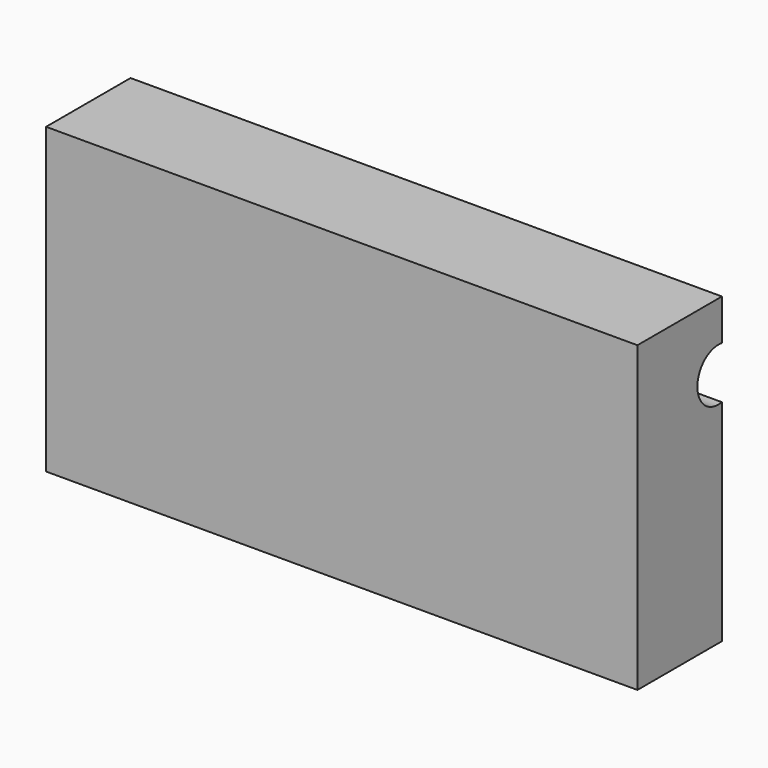
from build123d import *

# Parameters (mm, degrees)
F0_W     = 142.24
F0_H     = 38.1
F1_DEPTH = 73
F3_DEPTH = 142.24
F4_DEPTH = 12.7


with BuildPart() as f1:
    # F0 (on Top) → F1 (new body)
    with BuildSketch(Plane.XY):
        with Locations((2.9369369149, 17.2356535431)):
            Rectangle(F0_W, F0_H)
    extrude(amount=F1_DEPTH)

    # F2 (on face) → F3 (cut)
    with BuildSketch(Plane(origin=(-68.1830630851, 0, 0), x_dir=(0, -1, 0), z_dir=(-1, 0, 0))):
        with BuildLine():
            Line((-36.2856535431, 63.1459391326), (-36.2856535431, 50.6160780787))
            ThreePointArc((-36.2856535431, 50.6160780787), (-28.8997261841, 56.8810086057), (-36.2856535431, 63.1459391326))
        make_face()
    extrude(amount=-F3_DEPTH, mode=Mode.SUBTRACT)

    # F4 (cut): a face of the model
    f4_faces = [f1.faces().sort_by_distance(p)[0] for p in [
        (2.9369369149, -1.8143464569, 36.5),
    ]]
    extrude(f4_faces, amount=-F4_DEPTH, mode=Mode.SUBTRACT)


solid = f1.part
